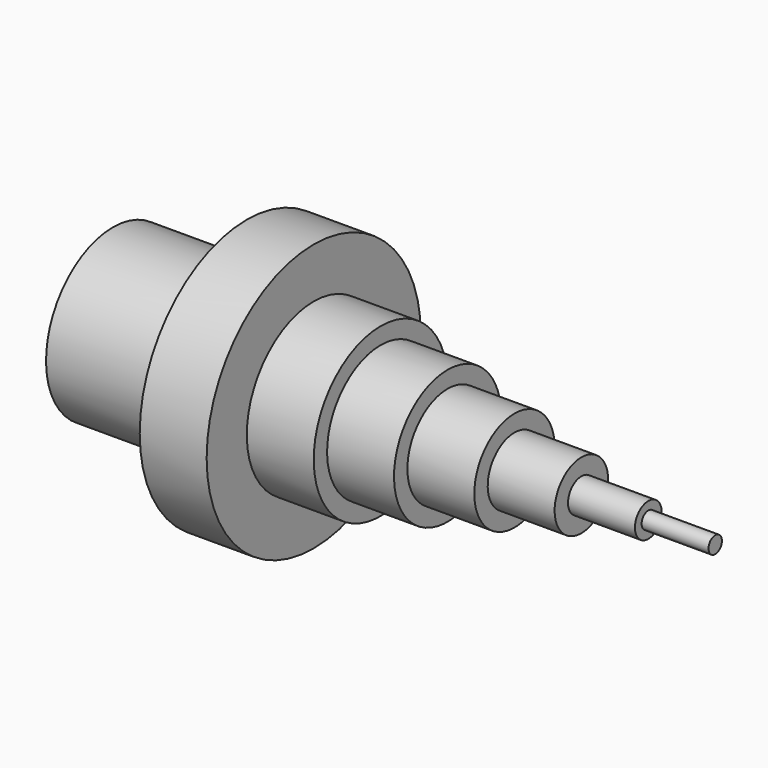
from build123d import *


with BuildPart() as f1:
    # F0 (on Front) → F1 (revolve)
    with BuildSketch(Plane.XZ):
        Polygon((-50, 25), (-90, 25), (-90, 20), (-50, 20), (-50, 0), (90, 0), (90, 2.5), (70, 2.5), (70, 5), (50, 5), (50, 10), (30, 10), (30, 15), (10, 15), (10, 20), (-10, 20), (-10, 25), (-30, 25), (-30, 40), (-50, 40), align=None)
    revolve(axis=Axis((-0.486968, 0, 0), (1, 0, 0)))


solid = f1.part
